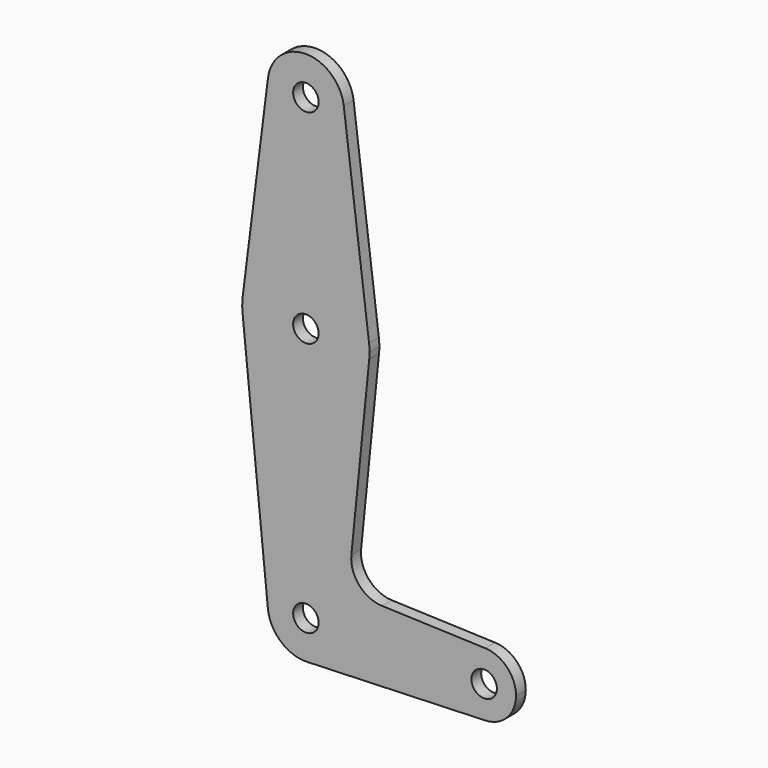
from build123d import *

# Parameters (mm, degrees)
F0_R     = 3.175
F1_DEPTH = 3.048


with BuildPart() as f1:
    # F0 (on Front) → F1 (new body)
    with BuildSketch(Plane.XZ):
        with BuildLine():
            ThreePointArc((-9.450293, 1.190625), (-0.596483, -9.506305), (9.525, 0))
            ThreePointArc((9.525, 0), (9.506305, 0.596483), (9.450293, 1.190625))
            ThreePointArc((9.450293, 1.190625), (0, 9.525), (-9.450293, 1.190625))
        make_face()
        Circle(F0_R, mode=Mode.SUBTRACT)
        with BuildLine():
            ThreePointArc((9.450293, 1.190625), (9.506305, 0.596483), (9.525, 0))
            ThreePointArc((9.525, 0), (-0.596483, -9.506305), (-9.450293, 1.190625))
            Line((-9.450293, 1.190625), (-15.750488, -48.815625))
            ThreePointArc((-15.750488, -48.815625), (0, -34.925), (15.750488, -48.815625))
            Line((15.750488, -48.815625), (9.450293, 1.190625))
        make_face()
        with BuildLine():
            ThreePointArc((15.875, -50.8), (15.843841, -49.805861), (15.750488, -48.815625))
            ThreePointArc((15.750488, -48.815625), (0, -34.925), (-15.750488, -48.815625))
            ThreePointArc((-15.750488, -48.815625), (-15.873744, -50.600295), (-15.795426, -52.3875))
            ThreePointArc((-15.795426, -52.3875), (0, -66.675), (15.795426, -52.3875))
            ThreePointArc((15.795426, -52.3875), (15.855094, -51.594747), (15.875, -50.8))
        make_face()
        with Locations((0, -50.8)):
            Circle(F0_R, mode=Mode.SUBTRACT)
        with BuildLine():
            ThreePointArc((15.795426, -52.3875), (0, -66.675), (-15.795426, -52.3875))
            Line((-15.795426, -52.3875), (-9.477255, -115.2525))
            ThreePointArc((-9.477255, -115.2525), (-0.476848, -104.786944), (9.525, -114.3))
            ThreePointArc((9.525, -114.3), (6.854408, -120.913827), (0.340179, -123.818923))
            Line((0.340179, -123.818923), (44.733482, -122.232436))
            ThreePointArc((44.733482, -122.232436), (36.5125, -114.3), (44.733482, -106.367564))
            Line((44.733482, -106.367564), (18.9676, -105.446766))
            ThreePointArc((18.9676, -105.446766), (13.2612, -102.728641), (11.341187, -96.706618))
            Line((11.341187, -96.706618), (15.795426, -52.3875))
        make_face()
        with BuildLine():
            ThreePointArc((9.525, -114.3), (-0.476848, -104.786944), (-9.477255, -115.2525))
            ThreePointArc((-9.477255, -115.2525), (-6.262383, -121.47692), (0.340179, -123.818923))
            ThreePointArc((0.340179, -123.818923), (6.854408, -120.913827), (9.525, -114.3))
        make_face()
        with Locations((0, -114.3)):
            Circle(F0_R, mode=Mode.SUBTRACT)
        with BuildLine():
            ThreePointArc((44.733482, -106.367564), (36.5125, -114.3), (44.733482, -122.232436))
            ThreePointArc((44.733482, -122.232436), (50.162007, -119.811523), (52.3875, -114.3))
            ThreePointArc((52.3875, -114.3), (50.162007, -108.788477), (44.733482, -106.367564))
        make_face()
        with Locations((44.45, -114.3)):
            Circle(F0_R, mode=Mode.SUBTRACT)
    extrude(amount=F1_DEPTH)


solid = f1.part
